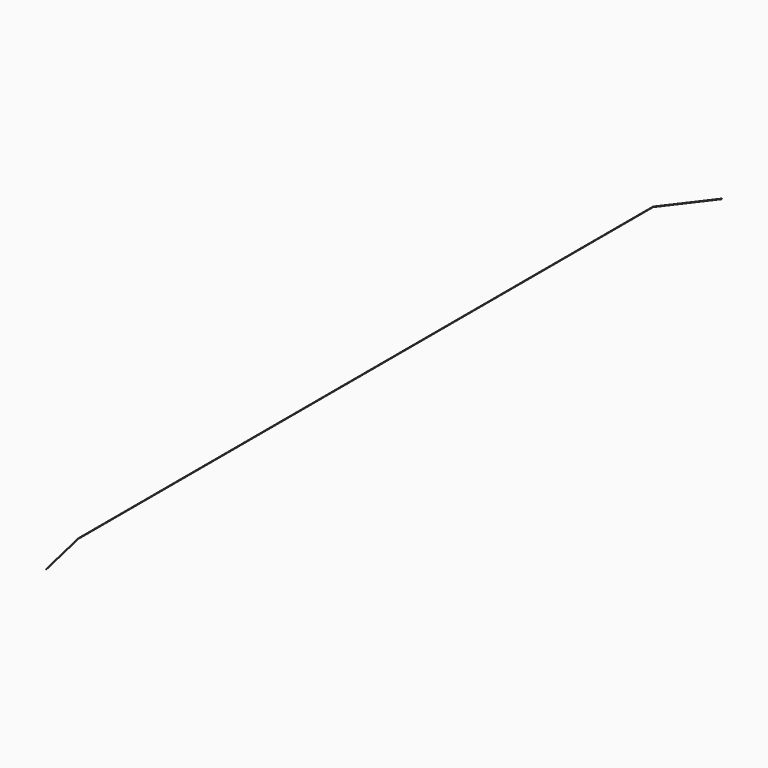
from build123d import *

# Parameters (mm, degrees)
F0_R = 0.25


with BuildPart() as f2:
    # F2: sweep along a path in F1
    with BuildLine(Plane.YZ) as f2_path:
        Line((0, 0), (37.7048968907, 9.9669830169))
        Line((37.7048968907, 9.9669830169), (711.7048968907, 9.9669830169))
        Line((711.7048968907, 9.9669830169), (792.1856942177, -16.1501914263))
    # F0 (on Front) → F2 (sweep)
    with BuildSketch(Plane.XZ):
        Circle(F0_R)
    sweep(path=f2_path.line, transition=Transition.RIGHT)


solid = f2.part
